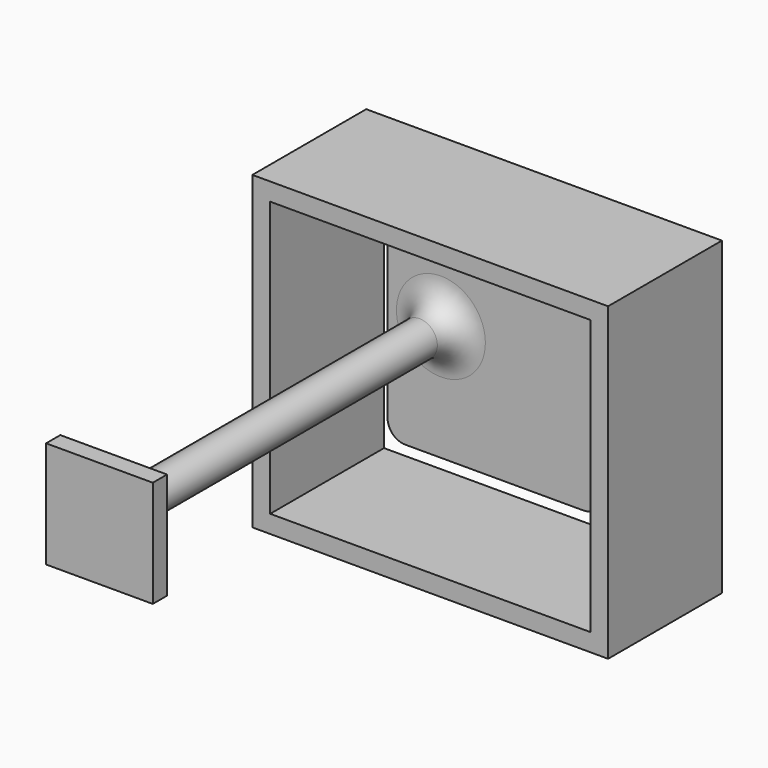
from build123d import *

# Parameters (mm, degrees)
F0_W     = 20
F0_H     = 17.45
F1_DEPTH = 8
F0_W_2   = 6
F0_H_2   = 6
F0_R     = 1
F2_DEPTH = 1
F3_DEPTH = 25
F4_W     = 6
F4_H     = 6
F5_DEPTH = 1
F6_R     = 1.5
F7_W     = 5
F7_H     = 5
F8_DEPTH = 0.2
F9_R     = 1


with BuildPart() as f1:
    # F0 (on Front) → F1 (new body)
    with BuildSketch(Plane.XZ):
        with Locations((10, 8.725)):
            Rectangle(F0_W, F0_H)
        Polygon((19, 16.45), (19, 11.225), (19, 6.225), (19, 1), (1, 1), (1, 16.45), align=None, mode=Mode.SUBTRACT)
    extrude(amount=F1_DEPTH)

    # F0 (on Front) → F2 (join)
    with BuildSketch(Plane.XZ):
        Polygon((19, 11.225), (14, 11.225), (14, 15.225), (2, 15.225), (2, 11.725), (8, 11.725), (8, 5.725), (2, 5.725), (2, 2.225), (14, 2.225), (14, 6.225), (19, 6.225), align=None)
        with Locations((5, 8.725)):
            Rectangle(F0_W_2, F0_H_2)
        with Locations((5, 8.725)):
            Circle(F0_R, mode=Mode.SUBTRACT)
    extrude(amount=F2_DEPTH)

    # F0 (on Front) → F3 (join)
    with BuildSketch(Plane.XZ):
        with Locations((5, 8.725)):
            Circle(F0_R)
    extrude(amount=F3_DEPTH)

    # F4 (on face) → F5 (join)
    with BuildSketch(Plane.XZ.offset(25)):
        with Locations((5, 8.725)):
            Rectangle(F4_W, F4_H)
    extrude(amount=-F5_DEPTH)

    # F6
    f6_edges = [f1.edges().sort_by_distance(p)[0] for p in [
        (4, -24, 8.725),
        (4, -1, 8.725),
    ]]
    fillet(f6_edges, radius=F6_R)

    # F7 (on face) → F8 (cut)
    with BuildSketch(Plane.XZ.offset(1)):
        with Locations((16.5, 8.725)):
            Rectangle(F7_W, F7_H)
    extrude(amount=-F8_DEPTH, mode=Mode.SUBTRACT)

    # F9
    f9_edges = [f1.edges().sort_by_distance(p)[0] for p in [
        (2, -0.5, 15.225),
        (14, -0.5, 15.225),
        (2, -0.5, 2.225),
        (14, -0.5, 2.225),
    ]]
    fillet(f9_edges, radius=F9_R)


solid = f1.part
